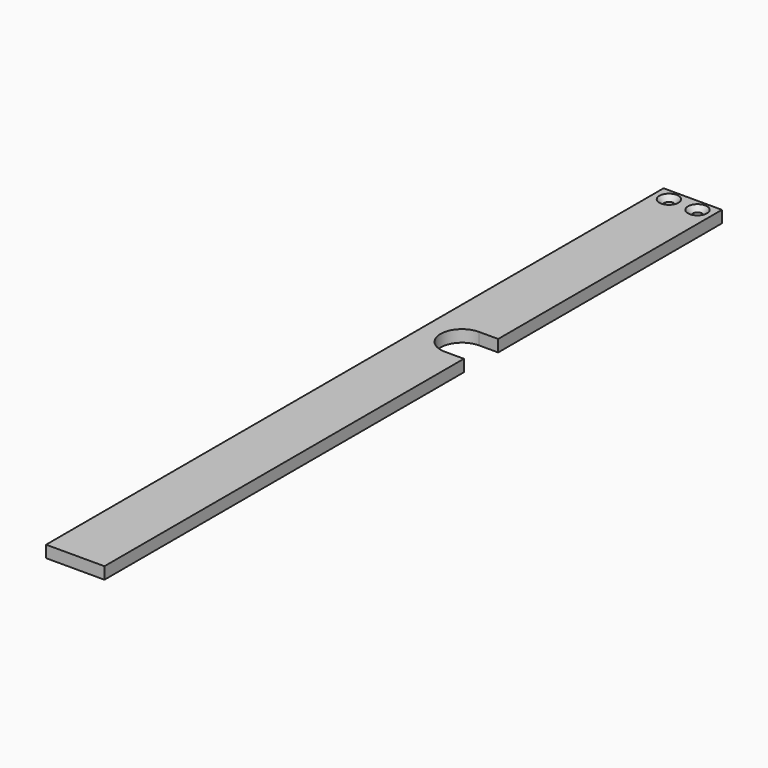
from build123d import *

# Parameters (mm, degrees)
PAD028_DEPTH    = 5
SKETCH060_R     = 2
POCKET038_DEPTH = 5.001
CHAMFER022_SIZE = 2


with BuildPart() as part:
    # Sketch055 → Pad028 (new body)
    with BuildSketch(Plane.XY):
        with BuildLine():
            Line((98.676816, 80.800335), (98.676816, -107.8))
            Line((98.676816, -107.8), (74.176816, -107.8))
            Line((74.176816, -107.8), (74.176816, 216.2))
            Line((74.176816, 216.2), (98.676816, 216.2))
            Line((98.676816, 216.2), (98.676816, 98.800335))
            Line((90.676816, 98.800335), (98.676816, 98.800335))
            ThreePointArc((90.676816, 98.800335), (81.676816, 89.800335), (90.676816, 80.800335))
            Line((90.676816, 80.800335), (98.676816, 80.800335))
        make_face()
    extrude(amount=PAD028_DEPTH)

    # Sketch060 (on Face10 of Pad028) → Pocket038 (cut, through all)
    with BuildSketch(Plane.XY.offset(5)):
        with Locations((80.426816, 211.2)):
            Circle(SKETCH060_R)
        with Locations((92.426816, 211.2)):
            Circle(SKETCH060_R)
    extrude(amount=-POCKET038_DEPTH, mode=Mode.SUBTRACT)

    # Chamfer022
    chamfer022_edges = [part.edges().sort_by_distance(p)[0] for p in [
        (78.426816, 211.2, 5),
        (90.426816, 211.2, 5),
    ]]
    chamfer(chamfer022_edges, length=CHAMFER022_SIZE)


with BuildPart() as part_1:
    # Body021 placement: moved
    add(part.part.moved(Location((0, 0, 15.5))))


solid = part_1.part
